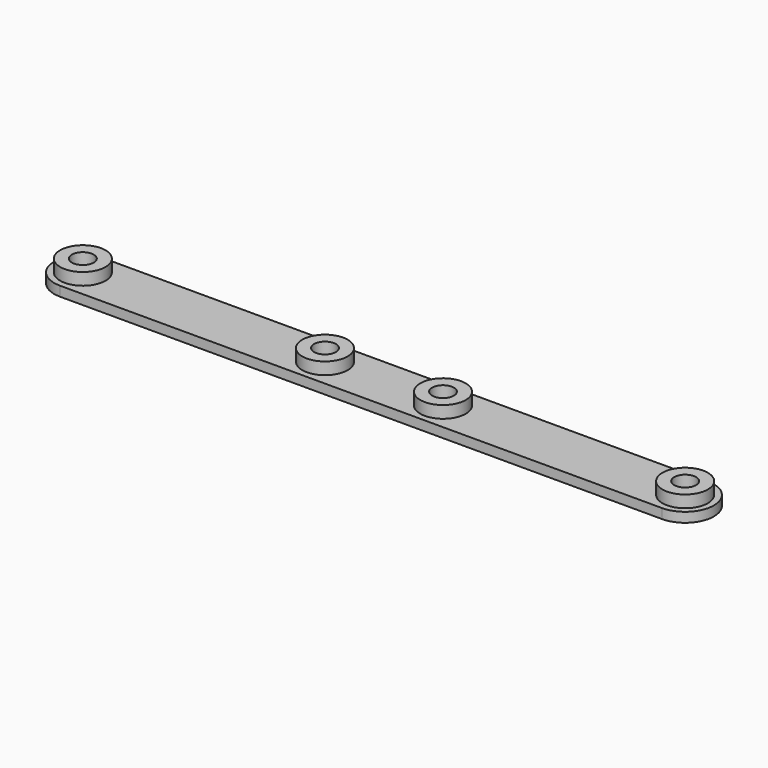
from build123d import *

# Parameters (mm, degrees)
PAD003_DEPTH        = 1.6
SKETCH006_R         = 3.75
PAD004_DEPTH        = 3.6
HOLE001_D           = 3.6
HOLE001_DEPTH       = 25
HOLE001_CSINK_D     = 6.7
HOLE001_CSINK_ANGLE = 90


with BuildPart() as part:
    # Sketch005 → Pad003 (new body)
    with BuildSketch(Plane.XY):
        with BuildLine():
            Line((-49.75, 4.75), (49.75, 4.75))
            ThreePointArc((49.75, -4.75), (54.5, 0), (49.75, 4.75))
            Line((49.75, -4.75), (-49.75, -4.75))
            ThreePointArc((-49.75, 4.75), (-54.5, 0), (-49.75, -4.75))
        make_face()
    extrude(amount=PAD003_DEPTH)

    # Sketch006 → Pad004 (join)
    with BuildSketch(Plane.XY):
        with Locations((-49.75, 0)):
            Circle(SKETCH006_R)
        with Locations((-9.75, 0)):
            Circle(SKETCH006_R)
        with Locations((9.75, 0)):
            Circle(SKETCH006_R)
        with Locations((49.75, 0)):
            Circle(SKETCH006_R)
    extrude(amount=PAD004_DEPTH)

    # Hole001
    with Locations(Plane(origin=(0, 0, 0), x_dir=(1, 0, 0), z_dir=(0, 0, -1))):
        with Locations((-49.75, 0), (-9.75, 0), (9.75, 0), (49.75, 0)):
            CounterSinkHole(HOLE001_D / 2, HOLE001_CSINK_D / 2, depth=HOLE001_DEPTH, counter_sink_angle=HOLE001_CSINK_ANGLE)


with BuildPart() as part_1:
    # Body001 placement: moved
    add(part.part.moved(Location((0, 36, -32))))


solid = part_1.part
